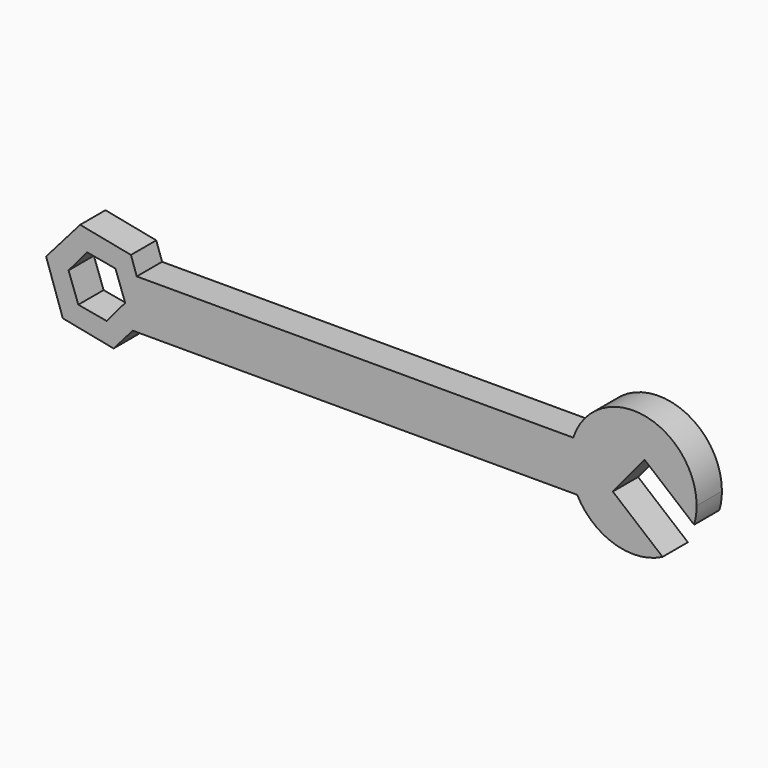
from build123d import *

# Parameters (mm, degrees)
F1_DEPTH = 6.35


with BuildPart() as f1:
    # F0 (on Front) → F1 (new body)
    with BuildSketch(Plane.XZ):
        with BuildLine():
            Line((-19.535648028, 41.1698554981), (69.6690051493, 41.1698554981))
            ThreePointArc((69.6690051493, 41.1698554981), (68.2734107375, 46.0093179877), (68.8687306625, 51.0106853144))
            Line((68.8687306625, 51.0106853144), (-18.7341859771, 51.0106853144))
            Line((-18.7341859771, 51.0106853144), (-16.544501635, 44.5905560083))
            Line((-16.544501635, 44.5905560083), (-19.535648028, 41.1698554981))
        make_face()
        with BuildLine():
            ThreePointArc((68.8687306625, 51.0106853144), (68.2734107375, 46.0093179877), (69.6690051493, 41.1698554981))
            Line((69.6690051493, 41.1698554981), (76.8122168252, 41.1698554981))
            Line((76.8122168252, 41.1698554981), (76.8122168252, 44.0645504642))
            Line((76.8122168252, 44.0645504642), (76.8122168252, 51.0106853144))
            Line((76.8122168252, 51.0106853144), (68.8687306625, 51.0106853144))
        make_face()
        with BuildLine():
            Line((83.1993854847, 51.7589689942), (93.1325389176, 43.5134172284))
            ThreePointArc((93.1325389176, 43.5134172284), (93.506233567, 45.2584856945), (93.6316237892, 47.0387072915))
            ThreePointArc((93.6316237892, 47.0387072915), (82.942998604, 59.5784190647), (68.8687306625, 51.0106853144))
            Line((68.8687306625, 51.0106853144), (76.8122168252, 51.0106853144))
            Line((76.8122168252, 51.0106853144), (76.8122168252, 44.0645504642))
            Line((76.8122168252, 44.0645504642), (83.1993854847, 51.7589689942))
        make_face()
        with BuildLine():
            ThreePointArc((69.6690051493, 41.1698554981), (77.1165270466, 34.9252834632), (86.7983786546, 35.7749962091))
            Line((86.7983786546, 35.7749962091), (76.8122168252, 44.0645504642))
            Line((76.8122168252, 44.0645504642), (76.8122168252, 41.1698554981))
            Line((76.8122168252, 41.1698554981), (69.6690051493, 41.1698554981))
        make_face()
        Polygon((-24.7877831748, 41.1698554981), (-19.535648028, 41.1698554981), (-16.544501635, 44.5905560083), (-18.7341859771, 51.0106853144), (-23.0106876439, 51.0106853144), (-21.0584325376, 45.5772671147), align=None)
        Polygon((-23.3853346079, 36.7673211123), (-19.535648028, 41.1698554981), (-24.7877831748, 41.1698554981), (-30.4693889183, 42.1958620812), (-32.4216440246, 47.629280281), (-28.6922933874, 52.0366918976), (-23.0106876439, 51.0106853144), (-18.7341859771, 51.0106853144), (-19.8992053083, 54.4265085938), (-30.0947419544, 56.4392262833), (-36.9355749272, 48.6159913874), (-33.580871254, 38.7800388019), align=None)
    extrude(amount=F1_DEPTH)


solid = f1.part
